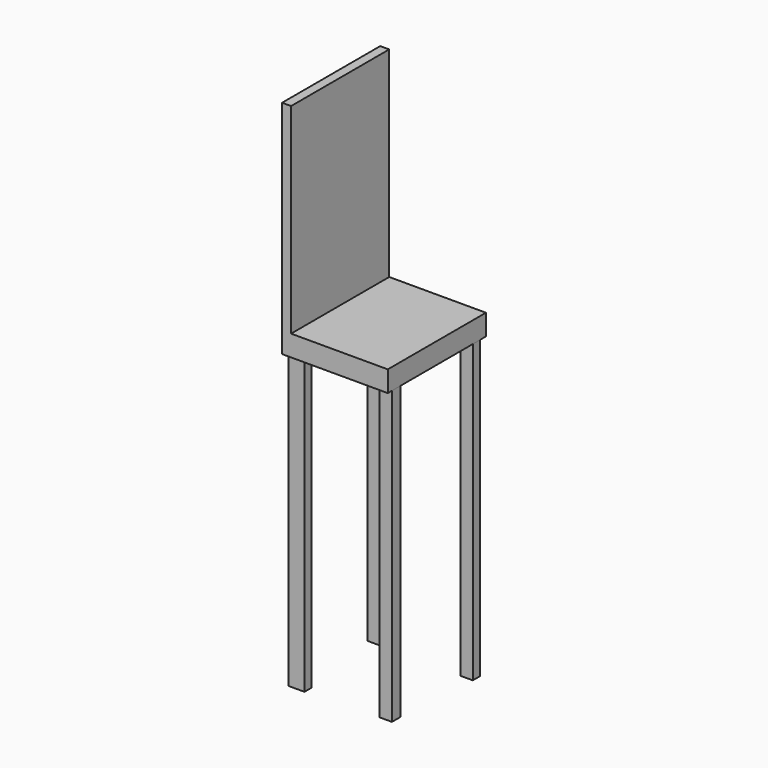
from build123d import *

# Parameters (mm, degrees)
F0_W      = 35.91213
F0_H      = 41.681683
F1_DEPTH  = 7.112
F2_W      = 4.138863
F2_H      = 3.556104
F3_DEPTH  = 99.06
F4_W      = 4.138863
F4_H      = 3.091657
F5_DEPTH  = 100.584
F6_W      = 3.981255
F6_H      = 5.324956
F7_DEPTH  = 100.584
F8_W      = 5.462058
F8_H      = 3.072897
F9_DEPTH  = 100.33
F10_W     = 3.054641
F10_H     = 41.681683
F11_DEPTH = 68.072


with BuildPart() as f1:
    # F0 (on Top) → F1 (new body)
    with BuildSketch(Plane.XY):
        with Locations((-43.722132, -7.864382)):
            Rectangle(F0_W, F0_H)
    extrude(amount=F1_DEPTH)

    # F2 (on face) → F3 (join)
    with BuildSketch(Plane(origin=(0, 0, 0), x_dir=(1, 0, 0), z_dir=(0, 0, -1))):
        with Locations((-27.835498, 25.163998)):
            Rectangle(F2_W, F2_H)
    extrude(amount=F3_DEPTH)

    # F4 (on face) → F5 (join)
    with BuildSketch(Plane(origin=(0, 0, 0), x_dir=(1, 0, 0), z_dir=(0, 0, -1))):
        with Locations((-27.835498, -8.937603)):
            Rectangle(F4_W, F4_H)
    extrude(amount=F5_DEPTH)

    # F6 (on face) → F7 (join)
    with BuildSketch(Plane(origin=(0, 0, 0), x_dir=(1, 0, 0), z_dir=(0, 0, -1))):
        with Locations((-59.687569, -10.313982)):
            Rectangle(F6_W, F6_H)
    extrude(amount=F7_DEPTH)

    # F8 (on face) → F9 (join)
    with BuildSketch(Plane(origin=(0, 0, 0), x_dir=(1, 0, 0), z_dir=(0, 0, -1))):
        with Locations((-58.947168, 24.504973)):
            Rectangle(F8_W, F8_H)
    extrude(amount=F9_DEPTH)

    # F10 (on face) → F11 (join)
    with BuildSketch(Plane.XY.offset(7.112)):
        with Locations((-60.150876, -7.864382)):
            Rectangle(F10_W, F10_H)
    extrude(amount=F11_DEPTH)


solid = f1.part
